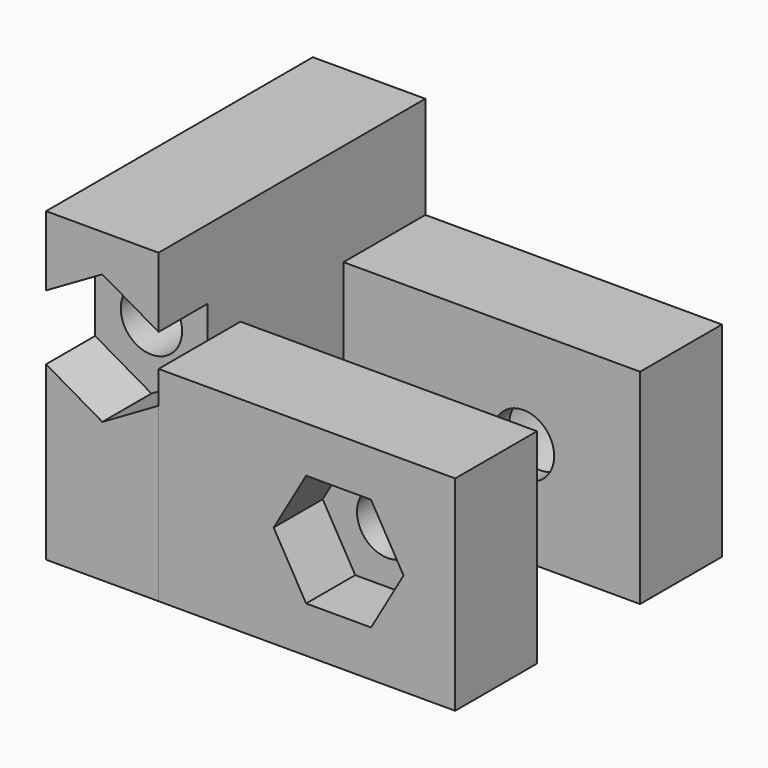
from build123d import *

# Parameters (mm, degrees)
F0_W     = 14.5
F0_H     = 5
F1_DEPTH = 10
F2_DEPTH = 15
F3_R     = 1.5
F4_DEPTH = 16.3
F3_R_2   = 2.745
F3_R_3   = 2.75
F5_DEPTH = 4
F6_R     = 1.5
F7_DEPTH = 3
F8_R     = 1.5
F9_DEPTH = 3


with BuildPart() as f1:
    # F0 (on Top) → F1 (new body)
    with BuildSketch(Plane.XY):
        with Locations((-7.25, 5.65)):
            Rectangle(F0_W, F0_H)
        with Locations((-7.25, -5.65)):
            Rectangle(F0_W, F0_H)
    extrude(amount=F1_DEPTH)


with BuildPart() as f2:
    # F0 (on Top) → F2 (new body)
    with BuildSketch(Plane.XY):
        Polygon((-14.5, -8.15), (-14.5, -3.15), (-14.5, 0), (-14.5, 3.15), (-14.5, 8.15), (-20, 8.15), (-20, 0), (-20, -8.15), align=None)
    extrude(amount=F2_DEPTH)


with BuildPart() as f4_tool:
    # F3 (on face) → F4 (new body)
    with BuildSketch(Plane(origin=(0, 8.15, 0), x_dir=(-1, 0, 0), z_dir=(0, 1, 0))):
        with Locations((5.7, 5)):
            Circle(F3_R)
        with Locations((17.25, 10)):
            Circle(F3_R)
    extrude(amount=-F4_DEPTH)


with BuildPart() as f1_1:
    add(f1.part)

    # F4: cut by f4_tool
    add(f4_tool.part, mode=Mode.SUBTRACT)


with BuildPart() as f2_1:
    add(f2.part)

    # F4: cut by f4_tool
    add(f4_tool.part, mode=Mode.SUBTRACT)


with BuildPart() as f5_tool:
    # F3 (on face) → F5 (new body)
    with BuildSketch(Plane(origin=(0, 8.15, 0), x_dir=(-1, 0, 0), z_dir=(0, 1, 0))):
        with Locations((17.25, 10)):
            Circle(F3_R_2)
        with Locations((17.25, 10)):
            Circle(F3_R, mode=Mode.SUBTRACT)
        with Locations((5.7, 5)):
            Circle(F3_R_3)
        with Locations((5.7, 5)):
            Circle(F3_R, mode=Mode.SUBTRACT)
    extrude(amount=-F5_DEPTH)


with BuildPart() as f1_2:
    add(f1_1.part)

    # F5: cut by f5_tool
    add(f5_tool.part, mode=Mode.SUBTRACT)

    # F6 (on face) → F7 (cut)
    with BuildSketch(Plane.XZ.offset(8.15)):
        Polygon((-4.112287, 2.25), (-2.524574, 5), (-4.112287, 7.75), (-7.287713, 7.75), (-8.875426, 5), (-7.287713, 2.25), align=None)
        with Locations((-5.7, 5)):
            Circle(F6_R, mode=Mode.SUBTRACT)
    extrude(amount=-F7_DEPTH, mode=Mode.SUBTRACT)


with BuildPart() as f2_2:
    add(f2_1.part)

    # F5: cut by f5_tool
    add(f5_tool.part, mode=Mode.SUBTRACT)

    # F8 (on face) → F9 (cut)
    with BuildSketch(Plane.XZ.offset(8.15)):
        Polygon((-14.5, 11.587713), (-17.25, 13.175426), (-20, 11.587713), (-20, 8.412287), (-17.25, 6.824574), (-14.5, 8.412287), align=None)
        with Locations((-17.25, 10)):
            Circle(F8_R, mode=Mode.SUBTRACT)
    extrude(amount=-F9_DEPTH, mode=Mode.SUBTRACT)


solid = Compound([f1_2.part, f2_2.part])
